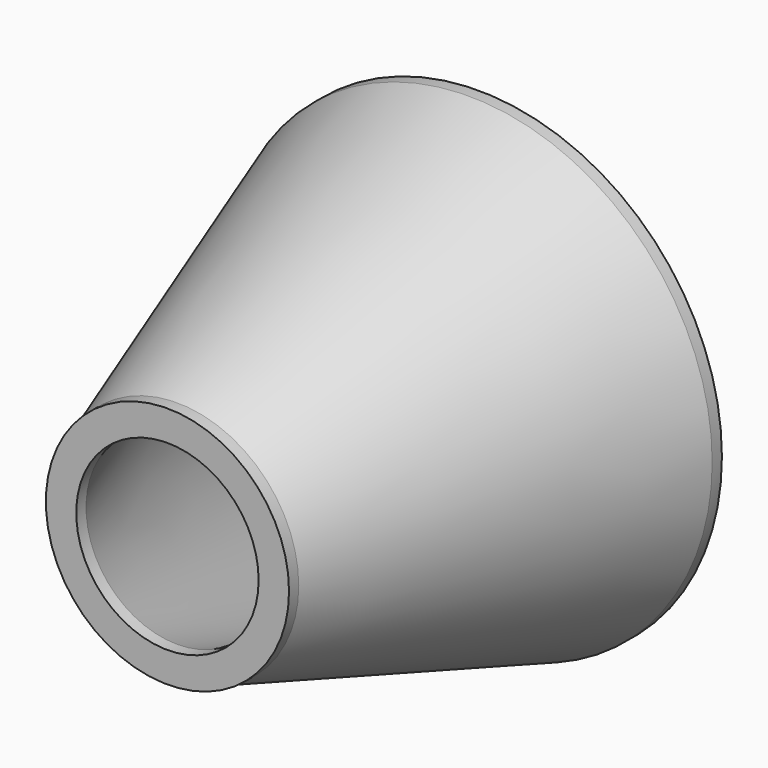
from build123d import *

# Parameters (mm, degrees)
F2_R     = 1
F2_R_2   = 0.75
F3_DEPTH = 2
F1_R     = 2
F1_R_2   = 1.75
F4_DEPTH = 2
F7_DEPTH = 1.9
F8_DEPTH = 1.9


with BuildPart() as f3:
    # F2 (on offset) → F3 (new body)
    with BuildSketch(Plane.XZ.offset(3)):
        Circle(F2_R)
        Circle(F2_R_2, mode=Mode.SUBTRACT)
    extrude(amount=F3_DEPTH)



with BuildPart() as f4:
    # F1 (on Front) → F4 (new body)
    with BuildSketch(Plane.XZ):
        Circle(F1_R)
        Circle(F1_R_2, mode=Mode.SUBTRACT)
    extrude(amount=-F4_DEPTH)


with BuildPart() as f3_1:
    add(f3.part)

    add(f4.part)  # F6 merges F4
    # F5 (on Right) → F6 (revolve)
    with BuildSketch(Plane.YZ):
        Polygon((-3, -1), (0, -2), (0, -1.75), (-3, -0.75), align=None)
    revolve(axis=Axis((0, -1.5, 0), (0, -1, 0)))

    # F7 (cut): a face of the model
    f7_faces = [f3_1.faces().sort_by_distance(p)[0] for p in [
        (-0.9717157288, -5, 0),
    ]]
    extrude(f7_faces, amount=-F7_DEPTH, mode=Mode.SUBTRACT)

    # F8 (cut): a face of the model
    f8_faces = [f3_1.faces().sort_by_distance(p)[0] for p in [
        (-1.9434314575, 2, 0),
    ]]
    extrude(f8_faces, amount=-F8_DEPTH, mode=Mode.SUBTRACT)


solid = f3_1.part
